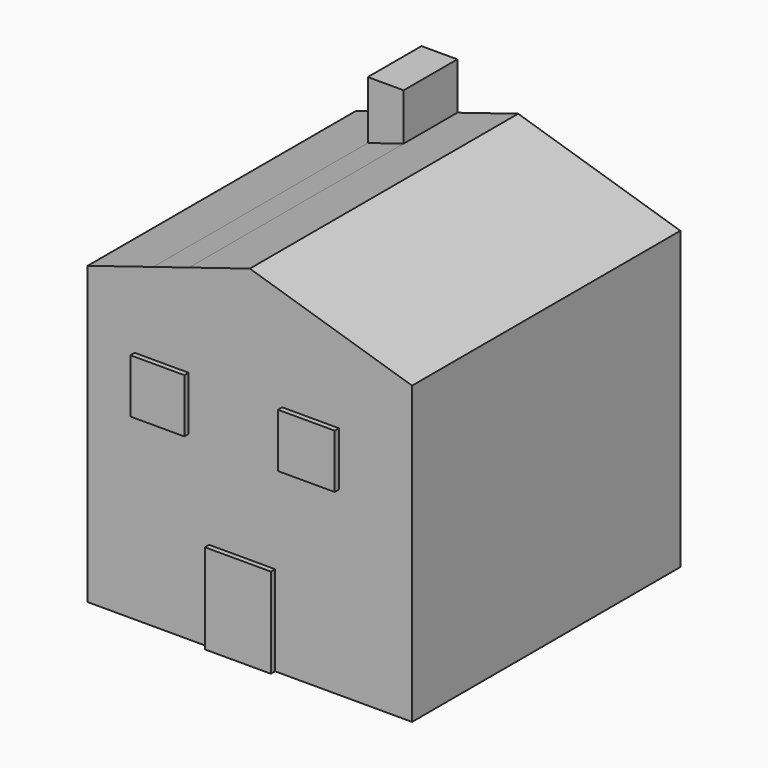
from build123d import *

# Parameters (mm, degrees)
F0_W     = 122.8438019753
F0_H     = 112.1096983552
F1_DEPTH = 127
F2_DEPTH = 25.4
F3_W     = 24.9869422987
F3_H     = 34.055031836
F4_DEPTH = 2
F5_W     = 10.221931152
F5_H     = 10.2219306864
F5_W_2   = 21.4697401971
F5_H_2   = 20.4438613728
F6_DEPTH = 2


with BuildPart() as f1:
    # F0 (on Front) → F1 (new body)
    with BuildSketch(Plane.XZ):
        Rectangle(F0_W, F0_H)
        Polygon((-61.4219009876, 56.0548491776), (61.4219009876, 56.0548491776), (0, 75.0973075628), (-23.0313282844, 67.9569699412), (-36.6085842252, 63.7476516512), align=None)
    extrude(amount=F1_DEPTH)

    # F0 (on Front) → F2 (join)
    with BuildSketch(Plane.XZ):
        Polygon((-36.6085842252, 85.7438147068), (-36.6085842252, 63.7476516512), (-23.0313282844, 67.9569699412), (-23.0313282844, 85.7438147068), align=None)
    extrude(amount=F2_DEPTH)

    # F3 (on face) → F4 (join)
    with BuildSketch(Plane.XZ.offset(127)):
        with Locations((-2.9205507599, -39.0273332596)):
            Rectangle(F3_W, F3_H)
    extrude(amount=F4_DEPTH)

    # F5 (on face) → F6 (join)
    with BuildSketch(Plane.XZ.offset(127)):
        with Locations((-38.5350571014, 27.7306872886)):
            Rectangle(F5_W, F5_H)
        with Locations((-28.3131259494, 27.7306872886)):
            Rectangle(F5_W, F5_H)
        with Locations((-38.5350571014, 17.5087566022)):
            Rectangle(F5_W, F5_H)
        with Locations((-28.3131259494, 17.5087566022)):
            Rectangle(F5_W, F5_H)
        with Locations((22.9804925621, 22.6197219454)):
            Rectangle(F5_W_2, F5_H_2)
    extrude(amount=F6_DEPTH)


solid = f1.part
